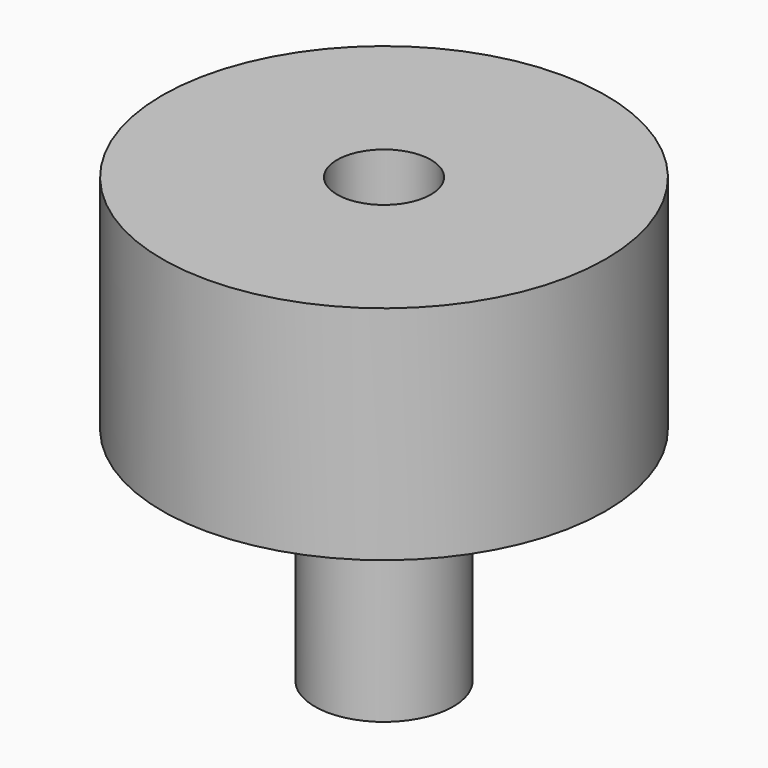
from build123d import *

# Parameters (mm, degrees)
F0_R     = 1.87325
F1_DEPTH = 5.999988
F2_R     = 5.99948
F3_DEPTH = 5.999988
F4_R     = 1.27
F5_DEPTH = 12.000976


with BuildPart() as f1:
    # F0 (on Top) → F1 (new body)
    with BuildSketch(Plane.XY):
        with Locations((-128.226578, -56.971956)):
            Circle(F0_R)
    extrude(amount=F1_DEPTH)

    # F2 (on face) → F3 (join)
    with BuildSketch(Plane.XY.offset(5.999988)):
        with Locations((-128.226578, -56.971956)):
            Circle(F2_R)
    extrude(amount=F3_DEPTH)

    # F4 (on face) → F5 (cut, through all)
    with BuildSketch(Plane.XY.offset(11.999976)):
        with Locations((-128.226578, -56.971956)):
            Circle(F4_R)
    extrude(amount=-F5_DEPTH, mode=Mode.SUBTRACT)


solid = f1.part
